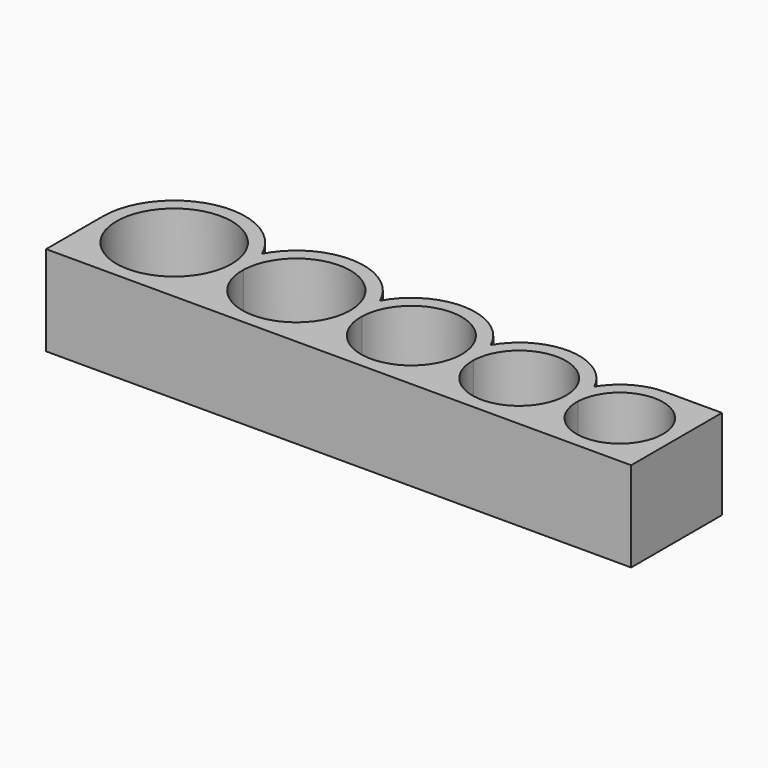
from build123d import *

# Parameters (mm, degrees)
F1_DEPTH = 25.4


with BuildPart() as f1:
    # F0 (on Top) → F1 (new body)
    with BuildSketch(Plane.XY):
        with BuildLine():
            ThreePointArc((0, 0), (-14.1888046713, 5.8771953287), (-20.066, 20.066))
            Line((-20.066, 20.066), (-20.066, 0))
            Line((-20.066, 0), (0, 0))
        make_face()
        with BuildLine():
            ThreePointArc((17.9660905129, 11.129336882), (16.6211524445, 15.2651396685), (16.2492676931, 19.598201499))
            ThreePointArc((16.2492676931, 19.598201499), (16.8698181027, 23.9026921501), (18.4504618661, 27.9542705917))
            ThreePointArc((18.4504618661, 27.9542705917), (-4.0260022476, 39.7239668812), (-20.066, 20.066))
            ThreePointArc((-20.066, 20.066), (-14.1888046713, 5.8771953287), (0, 0))
            ThreePointArc((0, 0), (10.5669596828, 3.0077551002), (17.9660905129, 11.129336882))
        make_face()
        with BuildLine():
            ThreePointArc((16.2492676931, 19.598201499), (-16.2543168361, 20.2999234712), (16.256, 20.066))
            ThreePointArc((16.256, 20.066), (16.2543168361, 19.8320765288), (16.2492676931, 19.598201499))
        make_face(mode=Mode.SUBTRACT)
        with BuildLine():
            ThreePointArc((18.4504618661, 27.9542705917), (16.8698181027, 23.9026921501), (16.2492676931, 19.598201499))
            ThreePointArc((16.2492676931, 19.598201499), (16.6211524445, 15.2651396685), (17.9660905129, 11.129336882))
            ThreePointArc((17.9660905129, 11.129336882), (19.4658964939, 15.1953501781), (20.0576898143, 19.4885614204))
            ThreePointArc((20.0576898143, 19.4885614204), (20.063922346, 19.7772508128), (20.066, 20.066))
            ThreePointArc((20.066, 20.066), (19.6579668812, 24.0920022476), (18.4504618661, 27.9542705917))
        make_face()
        with BuildLine():
            ThreePointArc((35.2913783636, 0), (24.9954114371, 3.0220379638), (17.9660905129, 11.129336882))
            ThreePointArc((17.9660905129, 11.129336882), (10.5669596828, 3.0077551002), (0, 0))
            Line((0, 0), (35.2913783636, 0))
        make_face()
        with BuildLine():
            ThreePointArc((52.7363723922, 26.7034096963), (35.9859218001, 38.087334616), (18.4504618661, 27.9542705917))
            ThreePointArc((18.4504618661, 27.9542705917), (19.6579668812, 24.0920022476), (20.066, 20.066))
            ThreePointArc((20.066, 20.066), (20.063922346, 19.7772508128), (20.0576898143, 19.4885614204))
            ThreePointArc((20.0576898143, 19.4885614204), (35.5106816843, 34.2884220315), (50.5313782672, 19.05))
            ThreePointArc((50.5313782672, 19.05), (50.5296016293, 18.8173011199), (50.5242721296, 18.5846564946))
            ThreePointArc((50.5242721296, 18.5846564946), (51.150167686, 22.7748598412), (52.7363723922, 26.7034096963))
        make_face()
        with BuildLine():
            ThreePointArc((20.0576898143, 19.4885614204), (19.4658964939, 15.1953501781), (17.9660905129, 11.129336882))
            ThreePointArc((17.9660905129, 11.129336882), (24.9954114371, 3.0220379638), (35.2913783636, 0))
            ThreePointArc((35.2913783636, 0), (45.2184017505, 2.7909500658), (52.2366769647, 10.3460151624))
            ThreePointArc((52.2366769647, 10.3460151624), (50.8932296176, 14.3640617786), (50.5242721296, 18.5846564946))
            ThreePointArc((50.5242721296, 18.5846564946), (34.8394256297, 3.8167029566), (20.0576898143, 19.4885614204))
        make_face()
        with BuildLine():
            ThreePointArc((54.3413782672, 19.05), (53.9358095817, 22.9599464139), (52.7363723922, 26.7034096963))
            ThreePointArc((52.7363723922, 26.7034096963), (51.150167686, 22.7748598412), (50.5242721296, 18.5846564946))
            ThreePointArc((50.5242721296, 18.5846564946), (50.8932296176, 14.3640617786), (52.2366769647, 10.3460151624))
            ThreePointArc((52.2366769647, 10.3460151624), (53.7372042015, 14.2903775777), (54.3324955841, 18.4683202558))
            ThreePointArc((54.3324955841, 18.4683202558), (54.339157467, 18.7591262186), (54.3413782672, 19.05))
        make_face()
        with BuildLine():
            ThreePointArc((52.2366769647, 10.3460151624), (45.2184017505, 2.7909500658), (35.2913783636, 0))
            Line((35.2913783636, 0), (68.5498631996, 0))
            ThreePointArc((68.5498631996, 0), (58.8911873733, 2.8045831602), (52.2366769647, 10.3460151624))
        make_face()
        with BuildLine():
            ThreePointArc((54.3324955841, 18.4683202558), (53.7372042015, 14.2903775777), (52.2366769647, 10.3460151624))
            ThreePointArc((52.2366769647, 10.3460151624), (58.8911873733, 2.8045831602), (68.5498631996, 0))
            ThreePointArc((68.5498631996, 0), (77.8389985645, 2.576408979), (84.4739682688, 9.5694838446))
            ThreePointArc((84.4739682688, 9.5694838446), (83.1320884093, 13.4663031835), (82.7663397489, 17.5714305184))
            ThreePointArc((82.7663397489, 17.5714305184), (68.1014181096, 3.8170709012), (54.3324955841, 18.4683202558))
        make_face()
        with BuildLine():
            ThreePointArc((86.5838631996, 18.034), (86.1810315428, 21.8243903304), (84.9905329505, 25.4454461574))
            ThreePointArc((84.9905329505, 25.4454461574), (83.3981736494, 21.644099363), (82.7663397489, 17.5714305184))
            ThreePointArc((82.7663397489, 17.5714305184), (83.1320884093, 13.4663031835), (84.4739682688, 9.5694838446))
            ThreePointArc((84.4739682688, 9.5694838446), (85.9751949602, 13.388252586), (86.5743245521, 17.4475283849))
            ThreePointArc((86.5743245521, 17.4475283849), (86.5814783801, 17.7407254097), (86.5838631996, 18.034))
        make_face()
        with BuildLine():
            ThreePointArc((84.9905329505, 25.4454461574), (69.2526835345, 36.0542996528), (52.7363723922, 26.7034096963))
            ThreePointArc((52.7363723922, 26.7034096963), (53.9358095817, 22.9599464139), (54.3413782672, 19.05))
            ThreePointArc((54.3413782672, 19.05), (54.339157467, 18.7591262186), (54.3324955841, 18.4683202558))
            ThreePointArc((54.3324955841, 18.4683202558), (68.7670486464, 32.2563418072), (82.7738631996, 18.034))
            ThreePointArc((82.7738631996, 18.034), (82.7719822126, 17.80268467), (82.7663397489, 17.5714305184))
            ThreePointArc((82.7663397489, 17.5714305184), (83.3981736494, 21.644099363), (84.9905329505, 25.4454461574))
        make_face()
        with BuildLine():
            ThreePointArc((84.4739682688, 9.5694838446), (77.8389985645, 2.576408979), (68.5498631996, 0))
            Line((68.5498631996, 0), (99.7753385043, 0))
            ThreePointArc((99.7753385043, 0), (90.751661979, 2.5893622969), (84.4739682688, 9.5694838446))
        make_face()
        with BuildLine():
            ThreePointArc((86.5743245521, 17.4475283849), (85.9751949602, 13.388252586), (84.4739682688, 9.5694838446))
            ThreePointArc((84.4739682688, 9.5694838446), (90.751661979, 2.5893622969), (99.7753385043, 0))
            ThreePointArc((99.7753385043, 0), (108.4287993719, 2.3643335983), (114.6777863565, 8.8003743081))
            ThreePointArc((114.6777863565, 8.8003743081), (113.3375545812, 12.572175467), (112.9753463662, 16.5585912009))
            ThreePointArc((112.9753463662, 16.5585912009), (99.3308696276, 3.8174806383), (86.5743245521, 17.4475283849))
        make_face()
        with BuildLine():
            ThreePointArc((115.2130425103, 24.1796771097), (100.4874564143, 34.0210941914), (84.9905329505, 25.4454461574))
            ThreePointArc((84.9905329505, 25.4454461574), (86.1810315428, 21.8243903304), (86.5838631996, 18.034))
            ThreePointArc((86.5838631996, 18.034), (86.5814783801, 17.7407254097), (86.5743245521, 17.4475283849))
            ThreePointArc((86.5743245521, 17.4475283849), (99.9901311009, 30.2242533726), (112.9833385043, 17.018))
            ThreePointArc((112.9833385043, 17.018), (112.9813403186, 16.7882608441), (112.9753463662, 16.5585912009))
            ThreePointArc((112.9753463662, 16.5585912009), (113.6138262125, 20.5101794262), (115.2130425103, 24.1796771097))
        make_face()
        with BuildLine():
            ThreePointArc((116.7933385043, 17.018), (116.3935690174, 20.6849794945), (115.2130425103, 24.1796771097))
            ThreePointArc((115.2130425103, 24.1796771097), (113.6138262125, 20.5101794262), (112.9753463662, 16.5585912009))
            ThreePointArc((112.9753463662, 16.5585912009), (113.3375545812, 12.572175467), (114.6777863565, 8.8003743081))
            ThreePointArc((114.6777863565, 8.8003743081), (116.1796742164, 12.4891928897), (116.7830409477, 16.4260696034))
            ThreePointArc((116.7830409477, 16.4260696034), (116.7907639204, 16.7219900196), (116.7933385043, 17.018))
        make_face()
        with BuildLine():
            ThreePointArc((128.9676635915, 32.004), (121.0554952765, 29.9110472914), (115.2130425103, 24.1796771097))
            ThreePointArc((115.2130425103, 24.1796771097), (116.3935690174, 20.6849794945), (116.7933385043, 17.018))
            ThreePointArc((116.7933385043, 17.018), (116.7907639204, 16.7219900196), (116.7830409477, 16.4260696034))
            ThreePointArc((116.7830409477, 16.4260696034), (116.1796742164, 12.4891928897), (114.6777863565, 8.8003743081))
            ThreePointArc((114.6777863565, 8.8003743081), (120.5764899645, 2.3765748998), (128.9676635915, 0))
            ThreePointArc((128.9676635915, 0), (140.2827863041, 4.6868772875), (144.9696635915, 16.002))
            ThreePointArc((144.9696635915, 16.002), (140.2827863041, 27.3171227125), (128.9676635915, 32.004))
        make_face()
        with BuildLine():
            ThreePointArc((141.1596635915, 16.002), (128.7555967071, 3.8118444786), (116.7830409477, 16.4260696034))
            ThreePointArc((116.7830409477, 16.4260696034), (129.179730476, 28.1921555214), (141.1596635915, 16.002))
        make_face(mode=Mode.SUBTRACT)
        with BuildLine():
            ThreePointArc((114.6777863565, 8.8003743081), (108.4287993719, 2.3643335983), (99.7753385043, 0))
            Line((99.7753385043, 0), (128.9676635915, 0))
            ThreePointArc((128.9676635915, 0), (120.5764899645, 2.3765748998), (114.6777863565, 8.8003743081))
        make_face()
        with BuildLine():
            ThreePointArc((144.9696635915, 16.002), (140.2827863041, 4.6868772875), (128.9676635915, 0))
            Line((128.9676635915, 0), (144.9696635915, 0))
            Line((144.9696635915, 0), (144.9696635915, 16.002))
        make_face()
        with BuildLine():
            Line((144.9696635915, 32.004), (128.9676635915, 32.004))
            ThreePointArc((128.9676635915, 32.004), (140.2827863041, 27.3171227125), (144.9696635915, 16.002))
            Line((144.9696635915, 16.002), (144.9696635915, 32.004))
        make_face()
    extrude(amount=F1_DEPTH)


solid = f1.part
